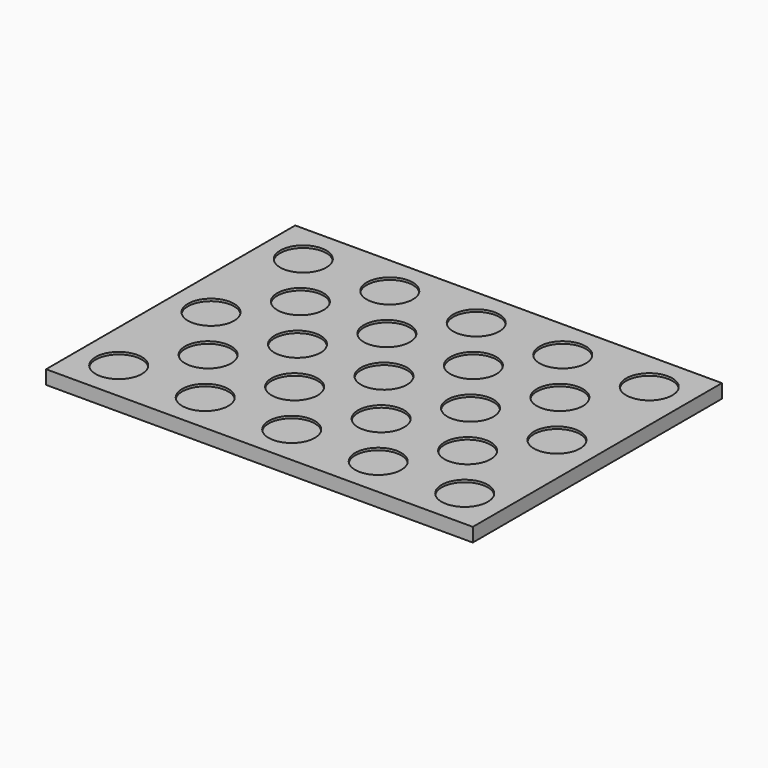
from build123d import *

# Parameters (mm, degrees)
F0_R     = 20
F1_DEPTH = 2
F2_W     = 370
F2_H     = 270
F3_DEPTH = 12


with BuildPart() as f1:
    # F0 (on Top) → F1 (new body)
    with BuildSketch(Plane.XY):
        with Locations((0, 200)):
            Circle(F0_R)
        with Locations((75, 200)):
            Circle(F0_R)
        with Locations((150, 200)):
            Circle(F0_R)
        with Locations((225, 200)):
            Circle(F0_R)
        with Locations((300, 200)):
            Circle(F0_R)
        with Locations((262.5, 150)):
            Circle(F0_R)
        with Locations((300, 100)):
            Circle(F0_R)
        with Locations((300, 0)):
            Circle(F0_R)
        with Locations((187.5, 150)):
            Circle(F0_R)
        with Locations((112.5, 150)):
            Circle(F0_R)
        with Locations((37.5, 150)):
            Circle(F0_R)
        with BuildLine():
            ThreePointArc((12, 84), (17.888544, 91.055728), (20, 100))
            ThreePointArc((20, 100), (-17.888544, 108.944272), (12, 84))
        make_face()
        with Locations((75, 100)):
            Circle(F0_R)
        with Locations((150, 100)):
            Circle(F0_R)
        with Locations((225, 100)):
            Circle(F0_R)
        with Locations((262.5, 50)):
            Circle(F0_R)
        with Locations((187.5, 50)):
            Circle(F0_R)
        with Locations((225, 0)):
            Circle(F0_R)
        with Locations((150, 0)):
            Circle(F0_R)
        with Locations((112.5, 50)):
            Circle(F0_R)
        with BuildLine():
            ThreePointArc((57.5, 50), (46.444272, 67.888544), (25.5, 66))
            Line((25.5, 66), (49.5, 34))
            ThreePointArc((49.5, 34), (55.388544, 41.055728), (57.5, 50))
        make_face()
        Circle(F0_R)
        with BuildLine():
            ThreePointArc((95, 0), (83.944272, 17.888544), (63, 16))
            ThreePointArc((63, 16), (66.055728, -17.888544), (95, 0))
        make_face()
        with BuildLine():
            Line((49.5, 34), (25.5, 66))
            ThreePointArc((25.5, 66), (21.5, 38), (49.5, 34))
        make_face()
    extrude(amount=-F1_DEPTH)


with BuildPart() as f3:
    # F2 (on Top) → F3 (new body)
    with BuildSketch(Plane.XY):
        with Locations((150, 100)):
            Rectangle(F2_W, F2_H)
    extrude(amount=-F3_DEPTH)

    # F4: cut F1
    add(f1.part, mode=Mode.SUBTRACT)


solid = f3.part
